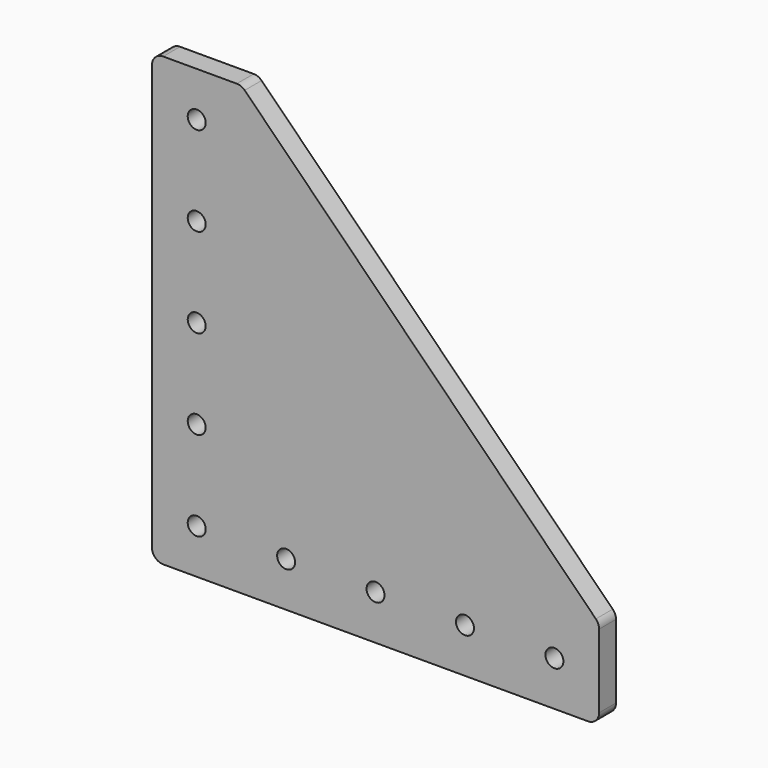
from build123d import *

# Parameters (mm, degrees)
F1_DEPTH = 6
F3_D     = 5.1054
F3_DEPTH = 50.8


with BuildPart() as f1:
    # F0 (on Front) → F1 (new body)
    with BuildSketch(Plane.XZ):
        with BuildLine():
            ThreePointArc((-145.15302, 139.997129), (-147.398084, 139.067193), (-148.32802, 136.822129))
            Line((-148.32802, 136.822129), (-148.32802, 16.172129))
            ThreePointArc((-148.32802, 16.172129), (-147.398084, 13.927065), (-145.15302, 12.997129))
            Line((-145.15302, 12.997129), (-24.50302, 12.997129))
            ThreePointArc((-24.50302, 12.997129), (-22.257956, 13.927065), (-21.32802, 16.172129))
            Line((-21.32802, 16.172129), (-21.32802, 37.082001))
            ThreePointArc((-21.32802, 37.082001), (-21.569703, 38.297021), (-22.257956, 39.327065))
            Line((-22.257956, 39.327065), (-121.998084, 139.067193))
            ThreePointArc((-121.998084, 139.067193), (-123.028128, 139.755447), (-124.243148, 139.997129))
            Line((-124.243148, 139.997129), (-145.15302, 139.997129))
        make_face()
    extrude(amount=F1_DEPTH)

    # F3
    with Locations(Plane.XZ.offset(6)):
        with Locations((-135.62802, 76.497129), (-135.62802, 51.097129), (-135.62802, 25.697129), (-135.62802, 101.897129), (-135.62802, 127.297129), (-110.22802, 25.697129), (-84.82802, 25.697129), (-59.42802, 25.697129), (-34.02802, 25.697129)):
            Hole(F3_D / 2, depth=F3_DEPTH)


solid = f1.part
